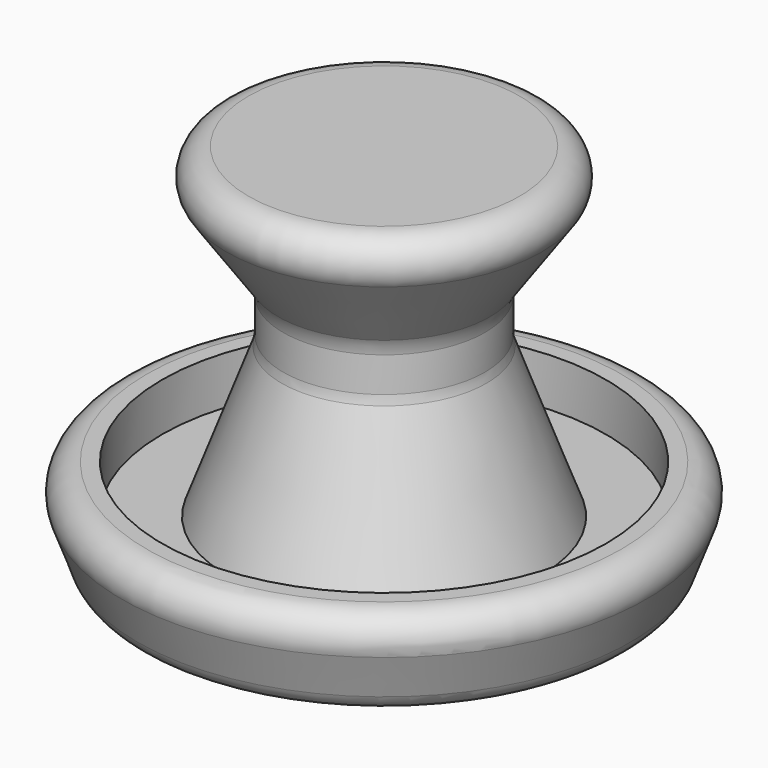
from build123d import *

# Parameters (mm, degrees)
F2_R = 5
F3_R = 5
F4_R = 5


with BuildPart() as f1:
    # F0 (on Front) → F1 (revolve)
    with BuildSketch(Plane.XZ):
        Polygon((-13.5948596994, -38), (31.4051403006, -38), (31.4051403006, 32), (-3.5948596994, 32), (12.5099136795, 9), (12.5099136795, 0), (1.8536760838, -29), (-10.1463239162, -29), (-10.1463239162, -20), (-20.1463239162, -20), align=None)
    revolve(axis=Axis((31.4051403006, 0, -3), (0, 0, -1)))

    # F2
    f2_edges = [f1.edges().sort_by_distance(p)[0] for p in [
        (66.40514, 0, 32),
        (82.956605, 0, -20),
    ]]
    fillet(f2_edges, radius=F2_R)

    # F3
    f3_edges = [f1.edges().sort_by_distance(p)[0] for p in [
        (50.300367, 0, 0),
        (50.300367, 0, 9),
    ]]
    fillet(f3_edges, radius=F3_R)

    # F4
    f4_edges = [f1.edges().sort_by_distance(p)[0] for p in [
        (76.40514, 0, -38),
    ]]
    fillet(f4_edges, radius=F4_R)


solid = f1.part
